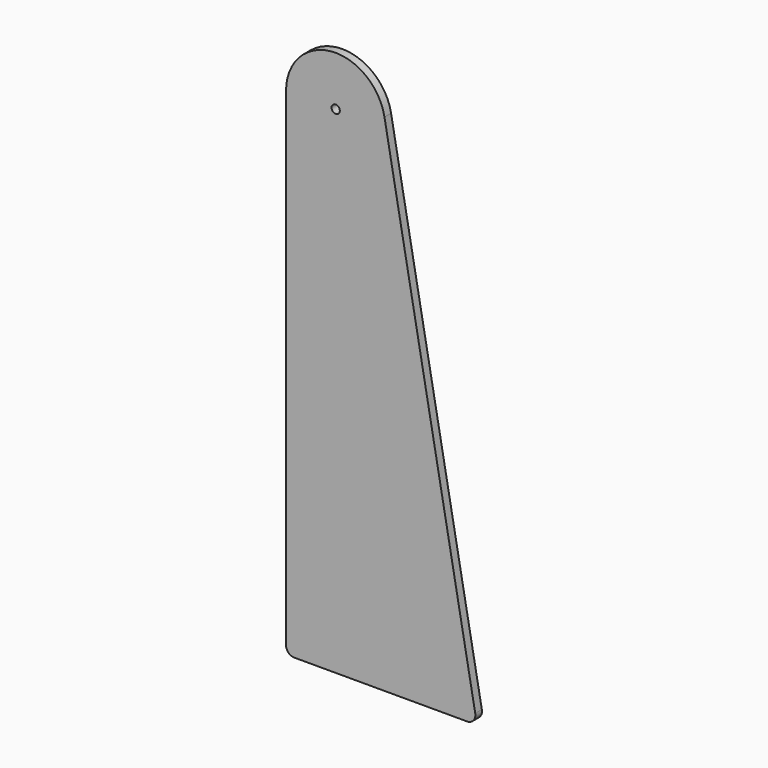
from build123d import *

# Parameters (mm, degrees)
F1_DEPTH = 0.635
F2_R     = 0.635
F3_DEPTH = 1.27
F4_R     = 1.27


with BuildPart() as f1:
    # F0 (on Front) → F1 (new body, symmetric)
    with BuildSketch(Plane.XZ):
        with BuildLine():
            Line((-29.324013, 0), (0, 0))
            Line((0, 0), (-14.208709, 77.572884))
            ThreePointArc((-14.208709, 77.572884), (-22.393281, 83.788762), (-29.324013, 76.2))
            Line((-29.324013, 76.2), (-29.324013, 0))
        make_face()
    extrude(amount=F1_DEPTH, both=True)

    # F2 (on face) → F3 (cut, through all)
    with BuildSketch(Plane.XZ.offset(0.635)):
        with Locations((-21.704013, 76.2)):
            Circle(F2_R)
    extrude(amount=-F3_DEPTH, mode=Mode.SUBTRACT)

    # F4
    f4_edges = [f1.edges().sort_by_distance(p)[0] for p in [
        (-29.324013, 0, 0),
        (0, 0, 0),
    ]]
    fillet(f4_edges, radius=F4_R)


solid = f1.part
